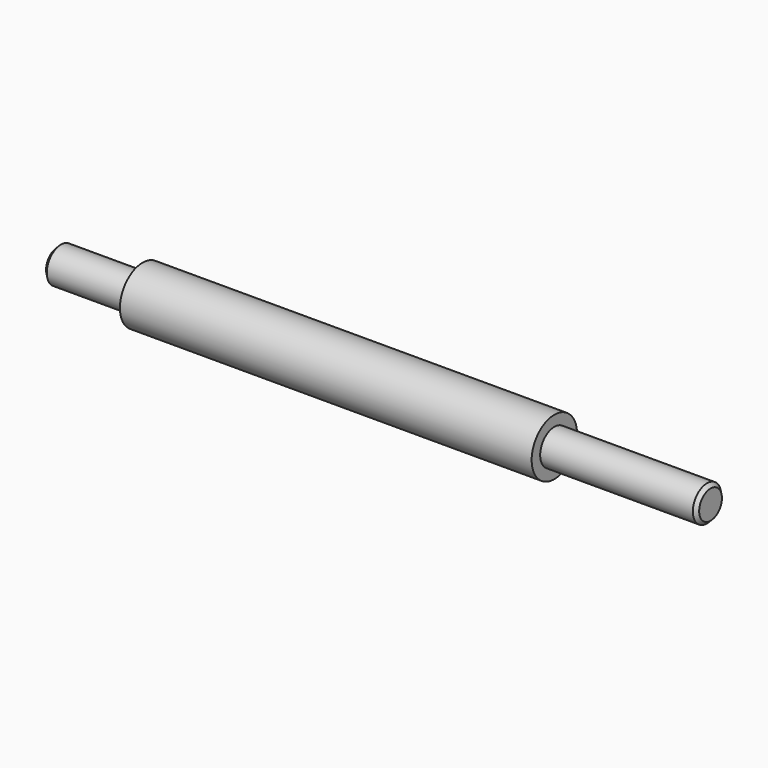
from build123d import *

# Parameters (mm, degrees)
F0_W    = 19.05
F0_H    = 3.96875
F0_W_2  = 92.075
F0_W_3  = 34.925
F0_H_2  = 2.38125
F2_SIZE = 0.7874


with BuildPart() as f1:
    # F0 (on Front) → F1 (revolve)
    with BuildSketch(Plane.XZ):
        with Locations((9.525, 1.984375)):
            Rectangle(F0_W, F0_H)
        with Locations((65.0875, 1.984375)):
            Rectangle(F0_W_2, F0_H)
        with Locations((128.5875, 1.984375)):
            Rectangle(F0_W_3, F0_H)
        with Locations((65.0875, 5.159375)):
            Rectangle(F0_W_2, F0_H_2)
    revolve(axis=Axis((73.025, 0, 0), (1, 0, 0)))

    # F2
    f2_edges = [f1.edges().sort_by_distance(p)[0] for p in [
        (146.05, 0, -3.96875),
        (0, 0, -3.96875),
    ]]
    chamfer(f2_edges, length=F2_SIZE)


solid = f1.part
